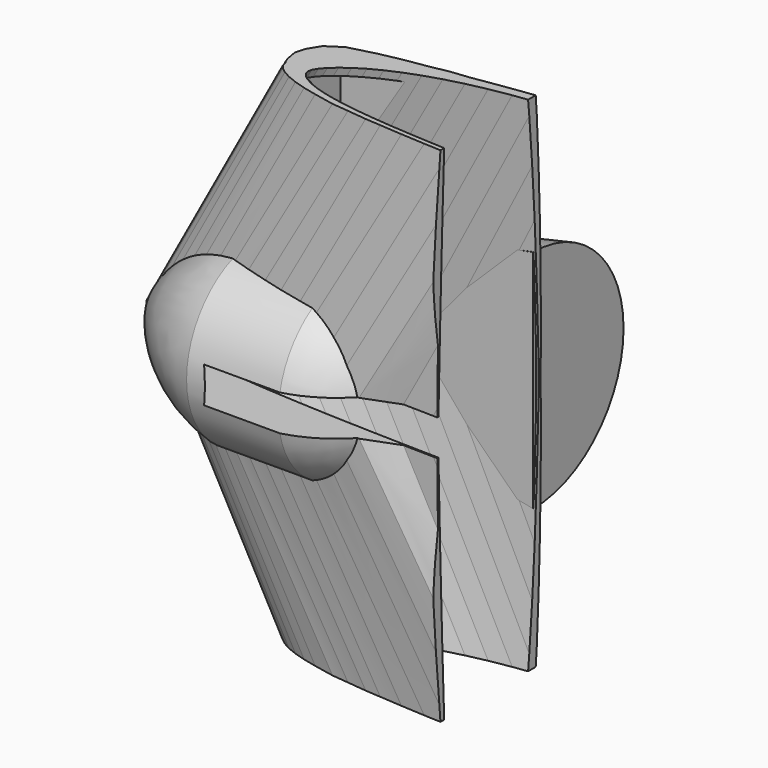
from build123d import *

# Parameters (mm, degrees)
SKETCH006_W         = 40
SKETCH006_H         = 135
PAD001_DEPTH        = 13
PAD_DEPTH           = 5
REVOLUTION_ANGLE    = 180
BOX_W               = 300
BOX_H               = 100
BOX_DEPTH           = 140
REVOLUTION001_ANGLE = -180


with BuildPart() as pad001:
    # Sketch006 → Pad001 (new body)
    with BuildSketch(Plane.XZ):
        with Locations((58, 0)):
            Rectangle(SKETCH006_W, SKETCH006_H)
    extrude(amount=-PAD001_DEPTH)


with BuildPart() as fusoliera:
    # Sketch → Pad (new body, symmetric)
    with BuildSketch(Plane.XY):
        with BuildLine():
            Line((290, 0), (289.7129, 0.0174))
            Line((289.7129, 0.0174), (288.8574, 0.0696))
            Line((288.8574, 0.0696), (287.4306, 0.1769))
            Line((287.4306, 0.1769), (285.4441, 0.3509))
            Line((285.4441, 0.3509), (282.9037, 0.6003))
            Line((282.9037, 0.6003), (279.8181, 0.9251))
            Line((279.8181, 0.9251), (276.1989, 1.3224))
            Line((276.1989, 1.3224), (272.0635, 1.7893))
            Line((272.0635, 1.7893), (267.4264, 2.3229))
            Line((267.4264, 2.3229), (262.3079, 2.9261))
            Line((262.3079, 2.9261), (256.7254, 3.6076))
            Line((256.7254, 3.6076), (250.6992, 4.3587))
            Line((250.6992, 4.3587), (244.2583, 5.1852))
            Line((244.2583, 5.1852), (237.4259, 6.0784))
            Line((237.4259, 6.0784), (230.2281, 7.0383))
            Line((230.2281, 7.0383), (230.2281, 40.028069))
            Line((230.2281, 40.028069), (201.90651, 39.515951))
            ThreePointArc((172.217343, 14.637652), (187.660006, 26.363067), (201.90651, 39.515951))
            Line((172.217343, 14.637652), (163.1743, 16.2081))
            Line((163.1743, 16.2081), (154.106, 17.371))
            Line((154.106, 17.371), (145, 18.4817))
            Line((145, 18.4817), (135.8969, 19.5199))
            Line((135.8969, 19.5199), (126.8257, 20.4682))
            Line((126.8257, 20.4682), (117.8299, 21.3034))
            Line((117.8299, 21.3034), (108.9414, 22.0023))
            Line((108.9414, 22.0023), (100.1921, 22.5446))
            Line((100.1921, 22.5446), (91.6226, 22.9129))
            Line((91.6226, 22.9129), (83.2619, 23.0898))
            Line((83.2619, 23.0898), (75.1448, 23.0608))
            Line((75.1448, 23.0608), (67.3061, 22.8201))
            Line((67.3061, 22.8201), (59.7719, 22.3561))
            Line((59.7719, 22.3561), (52.5741, 21.6717))
            Line((52.5741, 21.6717), (45.7417, 20.7698))
            Line((45.7417, 20.7698), (39.3008, 19.662))
            Line((39.3008, 19.662), (33.2746, 18.3628))
            Line((33.2746, 18.3628), (27.6921, 16.8896))
            Line((27.6921, 16.8896), (22.5736, 15.2714))
            Line((22.5736, 15.2714), (17.9365, 13.5314))
            Line((17.9365, 13.5314), (13.8011, 11.7015))
            Line((13.8011, 11.7015), (10.1819, 9.8165))
            Line((10.1819, 9.8165), (7.0963, 7.9112))
            Line((7.0963, 7.9112), (4.5559, 6.0378))
            Line((4.5559, 6.0378), (2.5694, 4.263))
            Line((2.5694, 4.263), (1.1426, 2.6535))
            Line((1.1426, 2.6535), (0.2871, 1.2383))
            Line((0.2871, 1.2383), (0, 0))
            Line((0, 0), (0.2871, -1.131))
            Line((0.2871, -1.131), (1.1426, -2.2243))
            Line((1.1426, -2.2243), (2.5694, -3.3176))
            Line((2.5694, -3.3176), (4.5559, -4.3964))
            Line((4.5559, -4.3964), (7.0963, -5.4201))
            Line((38.675534, -31.593528), (7.0963, -5.4201))
            Line((38.675534, -31.593528), (232.520951, -31.593528))
            Line((232.520951, -31.593528), (244.2583, -4.8227))
            Line((244.2583, -4.8227), (250.6992, -4.1267))
            Line((250.6992, -4.1267), (256.7254, -3.4626))
            Line((256.7254, -3.4626), (262.3079, -2.842))
            Line((262.3079, -2.842), (267.4264, -2.2765))
            Line((267.4264, -2.2765), (272.0635, -1.7661))
            Line((272.0635, -1.7661), (276.1989, -1.3137))
            Line((276.1989, -1.3137), (279.8181, -0.9222))
            Line((279.8181, -0.9222), (282.9037, -0.5974))
            Line((282.9037, -0.5974), (285.4441, -0.3509))
            Line((285.4441, -0.3509), (287.4306, -0.1769))
            Line((287.4306, -0.1769), (288.8574, -0.0696))
            Line((288.8574, -0.0696), (289.7129, -0.0174))
            Line((289.7129, -0.0174), (290, 0))
        make_face()
    extrude(amount=PAD_DEPTH, both=True)


with BuildPart() as loft_body:
    # Sketch001 → Loft section 0
    with BuildSketch(Plane.XY):
        Polygon((290, 0), (289.7129, 0.0174), (288.8574, 0.0696), (287.4306, 0.1769), (285.4441, 0.3509), (282.9037, 0.6003), (279.8181, 0.9251), (276.1989, 1.3224), (272.0635, 1.7893), (267.4264, 2.3229), (262.3079, 2.9261), (256.7254, 3.6076), (250.6992, 4.3587), (244.2583, 5.1852), (237.4259, 6.0784), (230.2281, 7.0383), (222.6939, 8.0591), (214.8552, 9.135), (206.7381, 10.2573), (198.3774, 11.4173), (189.8079, 12.6034), (181.0615, 13.8098), (172.1701, 15.0162), (163.1743, 16.2081), (154.106, 17.371), (145, 18.4817), (135.8969, 19.5199), (126.8257, 20.4682), (117.8299, 21.3034), (108.9414, 22.0023), (100.1921, 22.5446), (91.6226, 22.9129), (83.2619, 23.0898), (75.1448, 23.0608), (67.3061, 22.8201), (59.7719, 22.3561), (52.5741, 21.6717), (45.7417, 20.7698), (39.3008, 19.662), (33.2746, 18.3628), (27.6921, 16.8896), (22.5736, 15.2714), (17.9365, 13.5314), (13.8011, 11.7015), (10.1819, 9.8165), (7.0963, 7.9112), (4.5559, 6.0378), (2.5694, 4.263), (1.1426, 2.6535), (0.2871, 1.2383), (0, 0), (0.2871, -1.131), (1.1426, -2.2243), (2.5694, -3.3176), (4.5559, -4.3964), (7.0963, -5.4201), (10.1819, -6.3568), (13.8011, -7.1949), (17.9365, -7.9344), (22.5736, -8.5811), (27.6921, -9.1437), (33.2746, -9.6367), (39.3008, -10.063), (45.7417, -10.4371), (52.5741, -10.7619), (59.7719, -11.0461), (67.3061, -11.2926), (75.1448, -11.5043), (83.2619, -11.6812), (91.6226, -11.8175), (100.1921, -11.9161), (108.9414, -11.9683), (117.8299, -11.9712), (126.8257, -11.9161), (135.8969, -11.8001), (145, -11.6174), (154.106, -11.3651), (163.1743, -11.0374), (172.1701, -10.6401), (181.0615, -10.1732), (189.8079, -9.6396), (198.3774, -9.0451), (206.7381, -8.4013), (214.8552, -7.7169), (222.6939, -7.0064), (230.2281, -6.2756), (237.4259, -5.5448), (244.2583, -4.8227), (250.6992, -4.1267), (256.7254, -3.4626), (262.3079, -2.842), (267.4264, -2.2765), (272.0635, -1.7661), (276.1989, -1.3137), (279.8181, -0.9222), (282.9037, -0.5974), (285.4441, -0.3509), (287.4306, -0.1769), (288.8574, -0.0696), (289.7129, -0.0174), align=None)
    # Sketch002 → Loft section 1
    with BuildSketch(Plane(origin=(260, 0, 430), x_dir=(1, 0, 0), z_dir=(0, 0, 1))):
        Polygon((120, 0), (119.8812, 0.0072), (119.5272, 0.0288), (118.9368, 0.0732), (118.1148, 0.1452), (117.0636, 0.2484), (115.7868, 0.3828), (114.2892, 0.5472), (112.578, 0.7404), (110.6592, 0.9612), (108.5412, 1.2108), (106.2312, 1.4928), (103.7376, 1.8036), (101.0724, 2.1456), (98.2452, 2.5152), (95.2668, 2.9124), (92.1492, 3.3348), (88.9056, 3.78), (85.5468, 4.2444), (82.0872, 4.7244), (78.5412, 5.2152), (74.922, 5.7144), (71.2428, 6.2136), (67.5204, 6.7068), (63.768, 7.188), (60, 7.6476), (56.2332, 8.0772), (52.4796, 8.4696), (48.7572, 8.8152), (45.0792, 9.1044), (41.4588, 9.3288), (37.9128, 9.4812), (34.4532, 9.5544), (31.0944, 9.5424), (27.8508, 9.4428), (24.7332, 9.2508), (21.7548, 8.9676), (18.9276, 8.5944), (16.2624, 8.136), (13.7688, 7.5984), (11.4588, 6.9888), (9.3408, 6.3192), (7.422, 5.5992), (5.7108, 4.842), (4.2132, 4.062), (2.9364, 3.2736), (1.8852, 2.4984), (1.0632, 1.764), (0.4728, 1.098), (0.1188, 0.5124), (0, 0), (0.1188, -0.468), (0.4728, -0.9204), (1.0632, -1.3728), (1.8852, -1.8192), (2.9364, -2.2428), (4.2132, -2.6304), (5.7108, -2.9772), (7.422, -3.2832), (9.3408, -3.5508), (11.4588, -3.7836), (13.7688, -3.9876), (16.2624, -4.164), (18.9276, -4.3188), (21.7548, -4.4532), (24.7332, -4.5708), (27.8508, -4.6728), (31.0944, -4.7604), (34.4532, -4.8336), (37.9128, -4.89), (41.4588, -4.9308), (45.0792, -4.9524), (48.7572, -4.9536), (52.4796, -4.9308), (56.2332, -4.8828), (60, -4.8072), (63.768, -4.7028), (67.5204, -4.5672), (71.2428, -4.4028), (74.922, -4.2096), (78.5412, -3.9888), (82.0872, -3.7428), (85.5468, -3.4764), (88.9056, -3.1932), (92.1492, -2.8992), (95.2668, -2.5968), (98.2452, -2.2944), (101.0724, -1.9956), (103.7376, -1.7076), (106.2312, -1.4328), (108.5412, -1.176), (110.6592, -0.942), (112.578, -0.7308), (114.2892, -0.5436), (115.7868, -0.3816), (117.0636, -0.2472), (118.1148, -0.1452), (118.9368, -0.0732), (119.5272, -0.0288), (119.8812, -0.0072), align=None)
    loft()


with BuildPart() as loft_body_1:
    # Loft placement: moved
    add(loft_body.part.moved(Location((0, 0, 5))))


with BuildPart() as obj1:
    # Part__Mirroring: instance of Loft body
    add(loft_body_1.part.mirror(Plane(origin=(170, 5.5593, 0), x_dir=(0, 1, 0), z_dir=(0, 0, 1))))

    # Fusion001: union Loft body
    add(loft_body_1.part)

    # Fusion002: union fusoliera
    add(fusoliera.part)

    # Fusion004: union Pad001
    add(pad001.part)


with BuildPart() as obj2:
    # Sketch005 → Revolution (revolve)
    with BuildSketch(Plane.XZ):
        with BuildLine():
            ThreePointArc((25.407095, 24.798698), (7.644088, 15.826593), (-4.419994, 0))
            Line((-4.419994, 0), (73.884384, 0))
            ThreePointArc((73.884384, 0), (66.028237, 15.73582), (50.955104, 24.798698))
            Line((25.407095, 24.798698), (50.955104, 24.798698))
        make_face()
    revolve(axis=Axis((0, 0, 0), (1, 0, 0)), revolution_arc=REVOLUTION_ANGLE)


with BuildPart() as cubo:
    # Box → Box (new body)
    with BuildSketch(Plane(origin=(85, -50, -70), x_dir=(1, 0, 0), z_dir=(0, 0, 1))):
        with Locations((150, 50)):
            Rectangle(BOX_W, BOX_H)
    extrude(amount=BOX_DEPTH)


with BuildPart() as loft001:
    # Sketch003 → Loft001 section 0
    with BuildSketch(Plane(origin=(-5, 0, 0), x_dir=(1, 0, 0), z_dir=(0, 0, 1))):
        Polygon((300, 0), (299.703, 0.018), (298.818, 0.072), (297.342, 0.183), (295.287, 0.363), (292.659, 0.621), (289.467, 0.957), (285.723, 1.368), (281.445, 1.851), (276.648, 2.403), (271.353, 3.027), (265.578, 3.732), (259.344, 4.509), (252.681, 5.364), (245.613, 6.288), (238.167, 7.281), (230.373, 8.337), (222.264, 9.45), (213.867, 10.611), (205.218, 11.811), (196.353, 13.038), (187.305, 14.286), (178.107, 15.534), (168.801, 16.767), (159.42, 17.97), (150, 19.119), (140.583, 20.193), (131.199, 21.174), (121.893, 22.038), (112.698, 22.761), (103.647, 23.322), (94.782, 23.703), (86.133, 23.886), (77.736, 23.856), (69.627, 23.607), (61.833, 23.127), (54.945744, 23.051064), (47.122498, 22.28804), (40.386608, 21.29422), (33.761143, 19.637854), (28.019072, 17.871065), (23.218418, 16.053862), (18.61986, 14.152198), (14.277, 12.105), (10.533, 10.155), (7.341, 8.184), (4.713, 6.246), (2.658, 4.41), (1.182, 2.745), (0.297, 1.281), (0, 0), (0.297, -1.17), (1.182, -2.301), (2.658, -3.432), (4.713, -4.548), (7.341, -5.607), (10.368199, -6.953395), (14.311341, -8.103964), (18.149906, -9.159569), (22.843533, -10.31214), (28.600012, -11.483979), (34.357857, -12.539584), (40.595524, -13.499225), (45.681622, -14.266937), (53.742603, -15.322543), (60.843948, -15.994291), (68.137215, -15.802364), (77.736, -11.901), (86.133, -12.084), (94.782, -12.225), (103.647, -12.327), (112.698, -12.381), (121.893, -12.384), (131.199, -12.327), (140.583, -12.207), (150, -12.018), (159.42, -11.757), (168.801, -11.418), (178.107, -11.007), (187.305, -10.524), (196.353, -9.972), (205.218, -9.357), (213.867, -8.691), (222.264, -7.983), (230.373, -7.248), (238.167, -6.492), (245.613, -5.736), (252.681, -4.989), (259.344, -4.269), (265.578, -3.582), (271.353, -2.94), (276.648, -2.355), (281.445, -1.827), (285.723, -1.359), (289.467, -0.954), (292.659, -0.618), (295.287, -0.363), (297.342, -0.183), (298.818, -0.072), (299.703, -0.018), align=None)
    # Sketch004 → Loft001 section 1
    with BuildSketch(Plane(origin=(33, 0, 70), x_dir=(1, 0, 0), z_dir=(0, 0, 1))):
        Polygon((300, 0), (299.703, 0.018), (298.818, 0.072), (297.342, 0.183), (295.287, 0.363), (292.659, 0.621), (289.467, 0.957), (285.723, 1.368), (281.445, 1.851), (276.648, 2.403), (271.353, 3.027), (265.578, 3.732), (259.344, 4.509), (252.681, 5.364), (245.613, 6.288), (238.167, 7.281), (230.373, 8.337), (222.264, 9.45), (213.867, 10.611), (205.218, 11.811), (196.353, 13.038), (187.305, 14.286), (178.107, 15.534), (168.801, 16.767), (159.42, 17.97), (150, 19.119), (140.583, 20.193), (131.199, 21.174), (121.893, 22.038), (112.698, 22.761), (103.647, 23.322), (94.782, 23.703), (86.133, 23.886), (77.736, 23.856), (69.627, 23.607), (61.833, 23.127), (54.387, 22.419), (47.319, 21.486), (42.042729, 20.732476), (35.582152, 19.722852), (30.696201, 19.183754), (24.895218, 18.109499), (19.379642, 17.237464), (12.928707, 15.920092), (5.56757, 13.994234), (1.375393, 11.245266), (-0.703021, 7.845343), (-1.439052, 5.094563), (-0.92252, 2.222917), (-0.584923, 1.097586), (0, 0), (0.297, -1.17), (1.182, -2.301), (2.658, -3.432), (4.713, -4.548), (7.341, -5.607), (10.533, -6.576), (14.277, -7.443), (20.041225, -8.60954), (24.743465, -9.089361), (30.117455, -9.665145), (34.422, -9.969), (40.656, -10.41), (47.319, -10.797), (54.387, -11.133), (61.833, -11.427), (69.627, -11.682), (77.736, -11.901), (86.133, -12.084), (94.782, -12.225), (103.647, -12.327), (112.698, -12.381), (121.893, -12.384), (131.199, -12.327), (140.583, -12.207), (150, -12.018), (159.42, -11.757), (168.801, -11.418), (178.107, -11.007), (187.305, -10.524), (196.353, -9.972), (205.218, -9.357), (213.867, -8.691), (222.264, -7.983), (230.373, -7.248), (238.167, -6.492), (245.613, -5.736), (252.681, -4.989), (259.344, -4.269), (265.578, -3.582), (271.353, -2.94), (276.648, -2.355), (281.445, -1.827), (285.723, -1.359), (289.467, -0.954), (292.659, -0.618), (295.287, -0.363), (297.342, -0.183), (298.818, -0.072), (299.703, -0.018), align=None)
    loft()


with BuildPart() as cut001:
    # Part__Mirroring001: instance of Loft001
    add(loft001.part.mirror(Plane(origin=(160, 5.751, 0), x_dir=(0, 1, 0), z_dir=(0, 0, 1))))

    # Fusion: union Loft001
    add(loft001.part)

    # Cut: cut Cubo
    add(cubo.part, mode=Mode.SUBTRACT)

    # Fusion003: union obj2
    add(obj2.part)

    # Cut001: cut obj1
    add(obj1.part, mode=Mode.SUBTRACT)


with BuildPart() as revolution001:
    # Sketch007 → Revolution001 (revolve)
    with BuildSketch(Plane.XZ.offset(-22)):
        with BuildLine():
            Line((84.379883, 0), (84.379883, 31.425941))
            Line((84.379883, 31.425941), (46.206304, 23.760301))
            ThreePointArc((46.206304, 23.760301), (36.793421, 13.158), (31.513441, 0))
            Line((31.513441, 0), (84.379883, 0))
        make_face()
    revolve(axis=Axis((0, 22, 0), (1, 0, 0)), revolution_arc=REVOLUTION001_ANGLE)


solid = Compound([cut001.part, revolution001.part])
